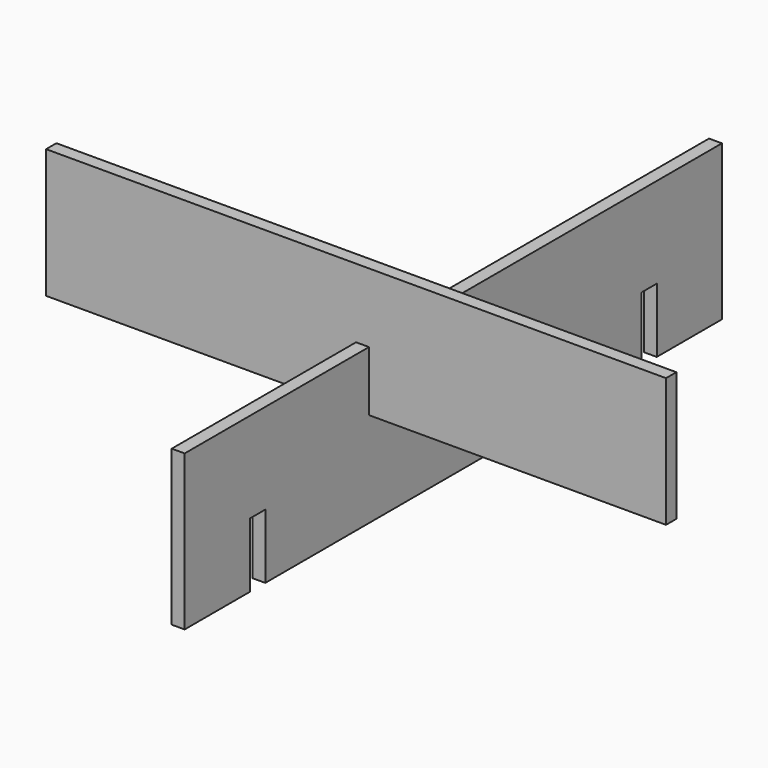
from build123d import *

# Parameters (mm, degrees)
F0_W     = 609.6
F0_H     = 127
F1_DEPTH = 12.7
F3_DEPTH = 12.7


with BuildPart() as f1:
    # F0 (on Front) → F1 (new body)
    with BuildSketch(Plane.XZ):
        with Locations((0, 63.5)):
            Rectangle(F0_W, F0_H)
    extrude(amount=F1_DEPTH)


with BuildPart() as f3:
    # F2 (on Right) → F3 (new body)
    with BuildSketch(Plane.YZ):
        Polygon((421.146473, -93.450739), (421.146473, 58.949261), (-239.253527, 58.949261), (-239.253527, -93.450739), (-159.163401, -93.450739), (-159.163401, -29.950739), (-140.113401, -29.950739), (-140.113401, -93.450739), (90.946473, -93.450739), (322.006347, -93.450739), (322.006347, -29.950739), (341.056347, -29.950739), (341.056347, -93.450739), align=None)
    extrude(amount=F3_DEPTH)


solid = Compound([f1.part, f3.part])
